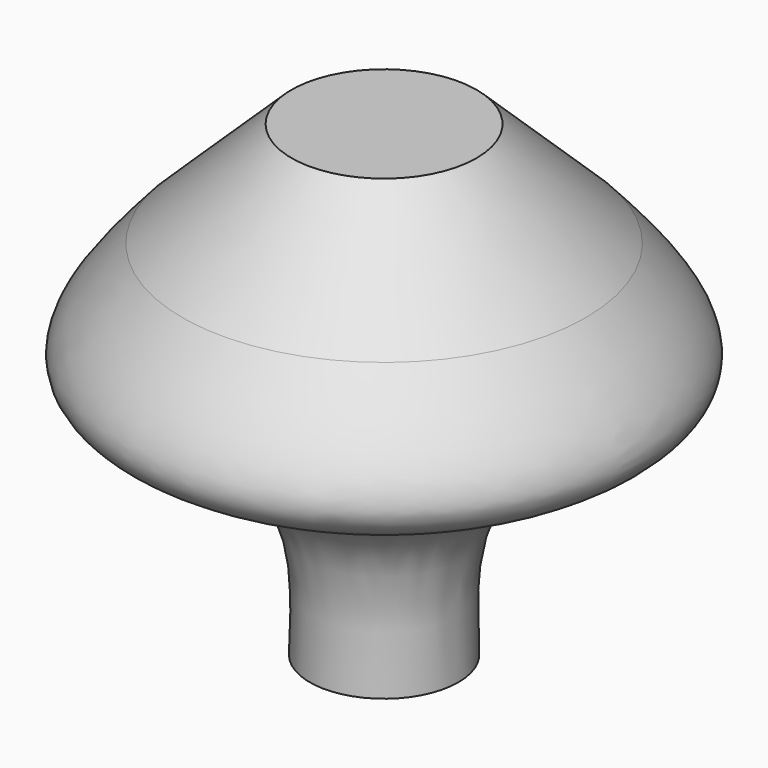
from build123d import *


with BuildPart() as f2:
    # F0 (on Front) → F2 (revolve)
    with BuildSketch(Plane.XZ):
        with BuildLine():
            Line((0, 67.5742477179), (0, 0))
            Line((0, 0), (10.7474625111, 0))
            add(Edge.make_bspline(
                [(29.1637480259, 52.395991981), (34.500894645, 46.3485790958), (46.0600907011, 33.2510849476), (9.7876293825, 27.2135309061), (10.4287551239, 9.0359857686), (10.7474625111, 0)],
                knots=[0, 0, 0, 0, 0.3013736894, 0.6527155656, 1, 1, 1, 1], degree=3))
            Line((29.1637480259, 52.395991981), (13.3783519268, 67.5742477179))
            Line((13.3783519268, 67.5742477179), (0, 67.5742477179))
        make_face()
    revolve(axis=Axis((0, 0, 35.2677330375), (0, 0, 1)))


solid = f2.part
